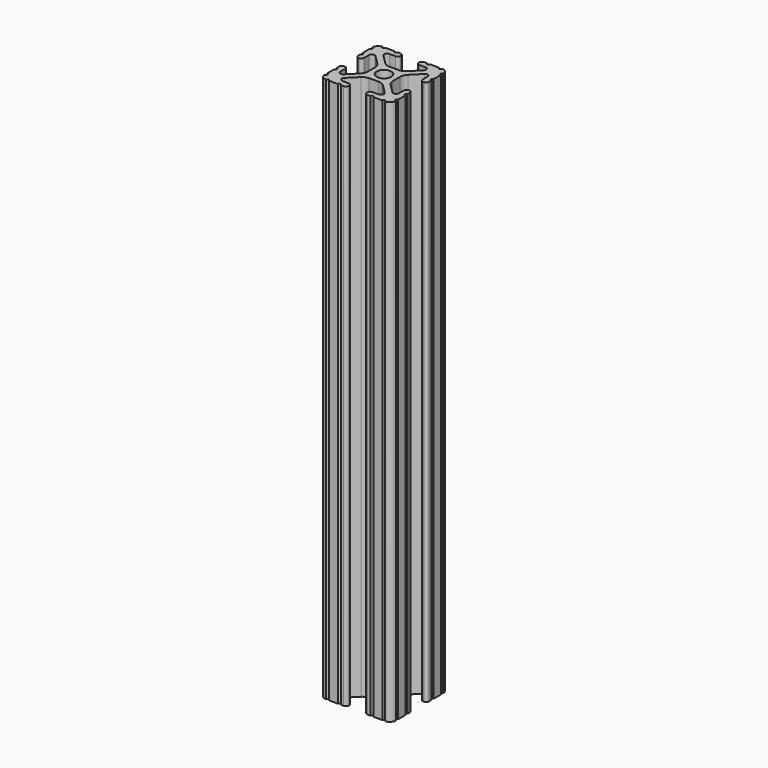
from build123d import *

# Parameters (mm, degrees)
SKETCH097_R   = 2.6035
EXTRUDE_DEPTH = 195.262


with BuildPart() as part:
    # Sketch097 → Extrude (new body)
    with BuildSketch(Plane.XY):
        with BuildLine():
            ThreePointArc((12.7, 6.333084), (12.192, 5.825084), (12.7, 5.317084))
            Line((12.7, 4.287469), (12.7, 5.317084))
            ThreePointArc((11.650988, 3.238457), (12.392751, 3.545706), (12.7, 4.287469))
            Line((11.539212, 3.238457), (11.650988, 3.238457))
            ThreePointArc((10.4902, 4.287469), (10.797449, 3.545706), (11.539212, 3.238457))
            Line((10.4902, 6.402089), (10.4902, 4.287469))
            ThreePointArc((10.4902, 6.402089), (9.856505, 7.351068), (8.737131, 7.129409))
            Line((5.441006, 3.840816), (8.737131, 7.129409))
            ThreePointArc((5.441006, 3.840816), (4.750878, 2.809883), (4.5085, 1.593186))
            Line((4.5085, -1.593186), (4.5085, 1.593186))
            ThreePointArc((4.5085, -1.593186), (4.750878, -2.809883), (5.441006, -3.840816))
            Line((8.737131, -7.129409), (5.441006, -3.840816))
            ThreePointArc((8.737131, -7.129409), (9.856505, -7.351068), (10.4902, -6.402089))
            Line((10.4902, -4.287469), (10.4902, -6.402089))
            ThreePointArc((11.539212, -3.238457), (10.797449, -3.545706), (10.4902, -4.287469))
            Line((11.650988, -3.238457), (11.539212, -3.238457))
            ThreePointArc((12.7, -4.287469), (12.392751, -3.545706), (11.650988, -3.238457))
            Line((12.7, -5.317084), (12.7, -4.287469))
            ThreePointArc((12.7, -5.317084), (12.192, -5.825084), (12.7, -6.333084))
            Line((12.7, -9.5504), (12.7, -6.333084))
            ThreePointArc((12.7, -9.5504), (12.192, -10.058323), (12.699847, -10.5664))
            ThreePointArc((10.566443, -12.699848), (12.082538, -12.082507), (12.699847, -10.5664))
            ThreePointArc((10.566443, -12.699848), (10.058367, -12.192), (9.550443, -12.7))
            Line((6.333127, -12.7), (9.550443, -12.7))
            ThreePointArc((6.333127, -12.7), (5.825127, -12.192), (5.317127, -12.7))
            Line((4.287512, -12.7), (5.317127, -12.7))
            ThreePointArc((3.2385, -11.650988), (3.545749, -12.392751), (4.287512, -12.7))
            Line((3.2385, -11.539212), (3.2385, -11.650988))
            ThreePointArc((4.287512, -10.4902), (3.545749, -10.797449), (3.2385, -11.539212))
            Line((6.416408, -10.4902), (4.287512, -10.4902))
            ThreePointArc((6.416408, -10.4902), (7.414731, -9.822813), (7.17965, -8.645193))
            Line((3.95227, -5.42369), (7.17965, -8.645193))
            ThreePointArc((3.95227, -5.42369), (2.922936, -4.736929), (1.709254, -4.4958))
            Line((-1.709254, -4.4958), (1.709254, -4.4958))
            ThreePointArc((-1.709254, -4.4958), (-2.922936, -4.736929), (-3.95227, -5.42369))
            Line((-7.17965, -8.645193), (-3.95227, -5.42369))
            ThreePointArc((-7.17965, -8.645193), (-7.414731, -9.822813), (-6.416408, -10.4902))
            Line((-4.287512, -10.4902), (-6.416408, -10.4902))
            ThreePointArc((-3.2385, -11.539212), (-3.545749, -10.797449), (-4.287512, -10.4902))
            Line((-3.2385, -11.650988), (-3.2385, -11.539212))
            ThreePointArc((-4.287512, -12.7), (-3.545749, -12.392751), (-3.2385, -11.650988))
            Line((-5.317127, -12.7), (-4.287512, -12.7))
            ThreePointArc((-5.317127, -12.7), (-5.825127, -12.192), (-6.333127, -12.7))
            Line((-9.550443, -12.7), (-6.333127, -12.7))
            ThreePointArc((-9.550443, -12.7), (-10.058367, -12.192), (-10.566443, -12.699848))
            ThreePointArc((-12.699847, -10.5664), (-12.082538, -12.082507), (-10.566443, -12.699848))
            ThreePointArc((-12.699847, -10.5664), (-12.192, -10.058323), (-12.7, -9.5504))
            Line((-12.7, -6.333084), (-12.7, -9.5504))
            ThreePointArc((-12.7, -6.333084), (-12.192, -5.825084), (-12.7, -5.317084))
            Line((-12.7, -4.287469), (-12.7, -5.317084))
            ThreePointArc((-11.650988, -3.238457), (-12.392751, -3.545706), (-12.7, -4.287469))
            Line((-11.539212, -3.238457), (-11.650988, -3.238457))
            ThreePointArc((-10.4902, -4.287469), (-10.797449, -3.545706), (-11.539212, -3.238457))
            Line((-10.4902, -6.402089), (-10.4902, -4.287469))
            ThreePointArc((-10.4902, -6.402089), (-9.856505, -7.351068), (-8.737131, -7.129409))
            Line((-5.441006, -3.840816), (-8.737131, -7.129409))
            ThreePointArc((-5.441006, -3.840816), (-4.750878, -2.809883), (-4.5085, -1.593186))
            Line((-4.5085, 1.593186), (-4.5085, -1.593186))
            ThreePointArc((-4.5085, 1.593186), (-4.750878, 2.809883), (-5.441006, 3.840816))
            Line((-8.737131, 7.129409), (-5.441006, 3.840816))
            ThreePointArc((-8.737131, 7.129409), (-9.856505, 7.351068), (-10.4902, 6.402089))
            Line((-10.4902, 4.287469), (-10.4902, 6.402089))
            ThreePointArc((-11.539212, 3.238457), (-10.797449, 3.545706), (-10.4902, 4.287469))
            Line((-11.650988, 3.238457), (-11.539212, 3.238457))
            ThreePointArc((-12.7, 4.287469), (-12.392751, 3.545706), (-11.650988, 3.238457))
            Line((-12.7, 5.317084), (-12.7, 4.287469))
            ThreePointArc((-12.7, 5.317084), (-12.192, 5.825084), (-12.7, 6.333084))
            Line((-12.7, 9.5504), (-12.7, 6.333084))
            ThreePointArc((-12.7, 9.5504), (-12.192, 10.058323), (-12.699847, 10.5664))
            ThreePointArc((-10.566443, 12.699848), (-12.082538, 12.082507), (-12.699847, 10.5664))
            ThreePointArc((-10.566443, 12.699848), (-10.058367, 12.192), (-9.550443, 12.7))
            Line((-6.333127, 12.7), (-9.550443, 12.7))
            ThreePointArc((-6.333127, 12.7), (-5.825127, 12.192), (-5.317127, 12.7))
            Line((-4.287512, 12.7), (-5.317127, 12.7))
            ThreePointArc((-3.2385, 11.650988), (-3.545749, 12.392751), (-4.287512, 12.7))
            Line((-3.2385, 11.539212), (-3.2385, 11.650988))
            ThreePointArc((-4.287512, 10.4902), (-3.545749, 10.797449), (-3.2385, 11.539212))
            Line((-6.476789, 10.4902), (-4.287512, 10.4902))
            ThreePointArc((-6.476789, 10.4902), (-7.432222, 9.851404), (-7.207036, 8.724371))
            Line((-3.898273, 5.423169), (-7.207036, 8.724371))
            ThreePointArc((-3.898273, 5.423169), (-2.86912, 4.736788), (-1.655778, 4.4958))
            Line((1.655778, 4.4958), (-1.655778, 4.4958))
            ThreePointArc((1.655778, 4.4958), (2.86912, 4.736788), (3.898273, 5.423169))
            Line((7.207036, 8.724371), (3.898273, 5.423169))
            ThreePointArc((7.207036, 8.724371), (7.432222, 9.851404), (6.476789, 10.4902))
            Line((4.287512, 10.4902), (6.476789, 10.4902))
            ThreePointArc((3.2385, 11.539212), (3.545749, 10.797449), (4.287512, 10.4902))
            Line((3.2385, 11.650988), (3.2385, 11.539212))
            ThreePointArc((4.287512, 12.7), (3.545749, 12.392751), (3.2385, 11.650988))
            Line((5.317127, 12.7), (4.287512, 12.7))
            ThreePointArc((5.317127, 12.7), (5.825127, 12.192), (6.333127, 12.7))
            Line((9.550443, 12.7), (6.333127, 12.7))
            ThreePointArc((9.550443, 12.7), (10.058367, 12.192), (10.566443, 12.699848))
            ThreePointArc((12.699847, 10.5664), (12.082538, 12.082507), (10.566443, 12.699848))
            ThreePointArc((12.699847, 10.5664), (12.192, 10.058323), (12.7, 9.5504))
            Line((12.7, 6.333084), (12.7, 9.5504))
        make_face()
        Circle(SKETCH097_R, mode=Mode.SUBTRACT)
    extrude(amount=EXTRUDE_DEPTH)


solid = part.part
